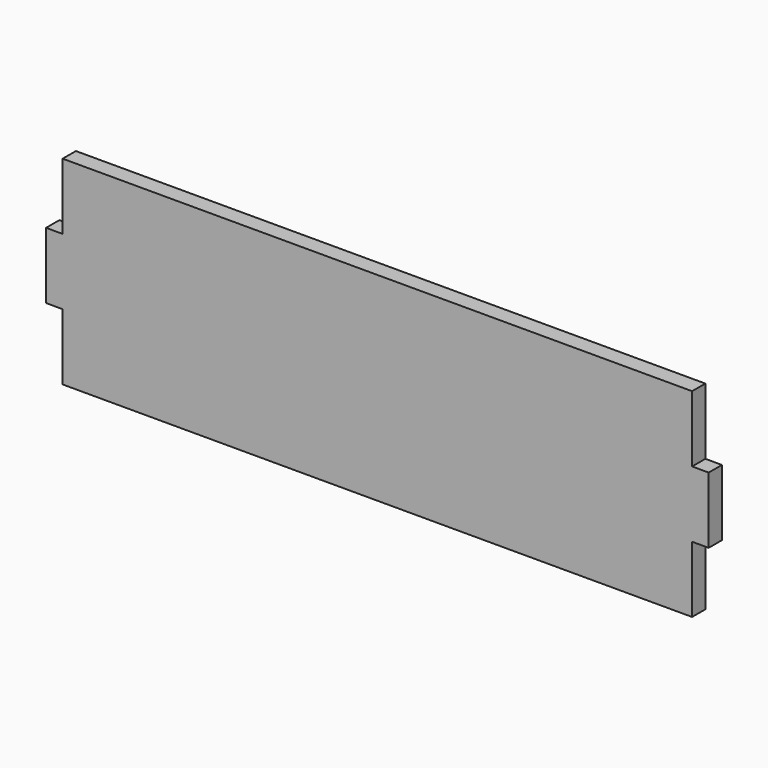
from build123d import *

# Parameters (mm, degrees)
F1_DEPTH = 3.175
F0_W     = 3.175
F0_H     = 12.7
F2_DEPTH = 25.4


with BuildPart() as f1:
    # F0 (on Front) → F1 (new body)
    with BuildSketch(Plane.XZ):
        Polygon((-123.825, 0), (-63.5, 0), (-63.5, 38.1), (-123.825, 38.1), (-123.825, 25.4), (-127, 25.4), (-127, 12.7), (-123.825, 12.7), align=None)
        Polygon((-63.5, 0), (-3.175, 0), (-3.175, 12.7), (0, 12.7), (0, 25.4), (-3.175, 25.4), (-3.175, 38.1), (-63.5, 38.1), align=None)
    extrude(amount=F1_DEPTH)

    # F0 (on Front) → F2 (cut)
    with BuildSketch(Plane.XZ):
        with Locations((-125.4125, 6.35)):
            Rectangle(F0_W, F0_H)
        with Locations((-125.4125, 31.75)):
            Rectangle(F0_W, F0_H)
        with Locations((-1.5875, 31.75)):
            Rectangle(F0_W, F0_H)
        with Locations((-1.5875, 6.35)):
            Rectangle(F0_W, F0_H)
    extrude(amount=-F2_DEPTH, mode=Mode.SUBTRACT)


solid = f1.part
